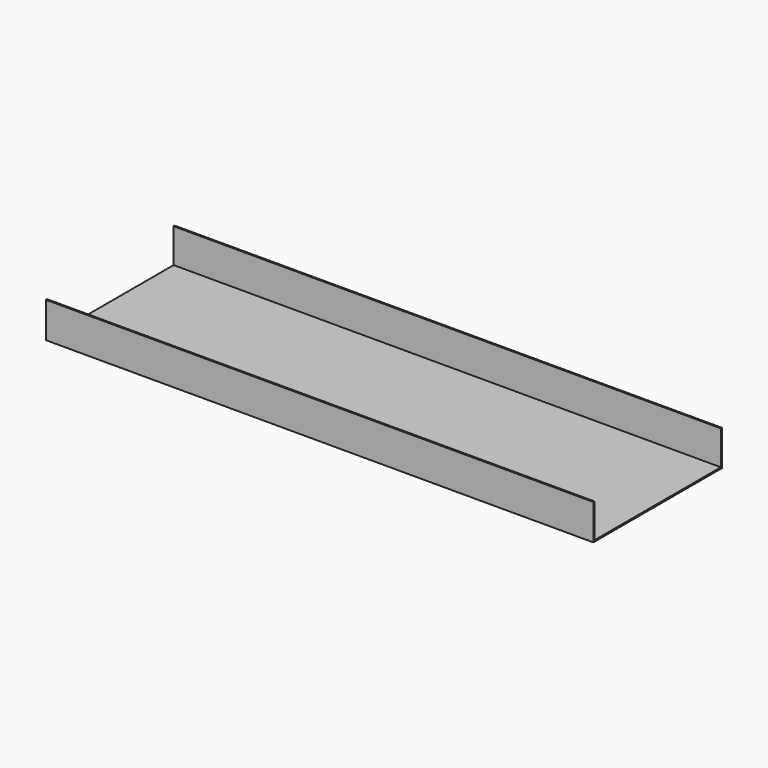
from build123d import *

# Parameters (mm, degrees)
SKETCH_W     = 800
SKETCH_H     = 235
PAD_DEPTH    = 2
SKETCH001_W  = 800
SKETCH001_H  = 2
PAD001_DEPTH = 50


with BuildPart() as part:
    # Sketch → Pad (new body)
    with BuildSketch(Plane.XY):
        Rectangle(SKETCH_W, SKETCH_H)
    extrude(amount=PAD_DEPTH)

    # Sketch001 (on Face6 of Pad) → Pad001 (join)
    with BuildSketch(Plane.XY.offset(2)):
        with Locations((0, 116.5)):
            Rectangle(SKETCH001_W, SKETCH001_H)
        with Locations((0, -116.5)):
            Rectangle(SKETCH001_W, SKETCH001_H)
    extrude(amount=PAD001_DEPTH)


solid = part.part
